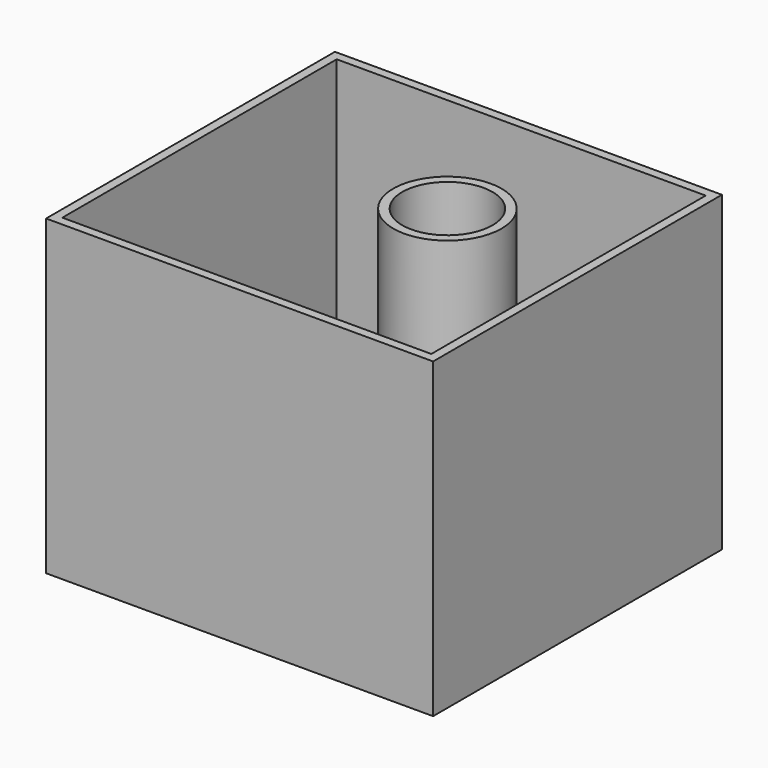
from build123d import *

# Parameters (mm, degrees)
F0_W           = 107.2001978755
F0_H           = 86.5053012967
F1_DEPTH       = 100
F3_D           = 15
F3_CBORE_D     = 25
F3_CBORE_DEPTH = 50
F4_T           = -2.5


with BuildPart() as f1:
    # F0 (on Front) → F1 (new body)
    with BuildSketch(Plane.XZ):
        with Locations((-2.1000653505, -2.4665594101)):
            Rectangle(F0_W, F0_H)
    extrude(amount=-F1_DEPTH)

    # F3 (through all)
    with Locations(Plane.XY.offset(40.7860912383)):
        with Locations((9.1865165159, 57.8404814005)):
            CounterBoreHole(F3_D / 2, F3_CBORE_D / 2, F3_CBORE_DEPTH)

    # F4
    f4_openings = [f1.faces().sort_by_distance(p)[0] for p in [
        (-2.641683, 49.623753, 40.786091),
    ]]
    offset(amount=F4_T, openings=f4_openings, kind=Kind.INTERSECTION)


solid = f1.part
